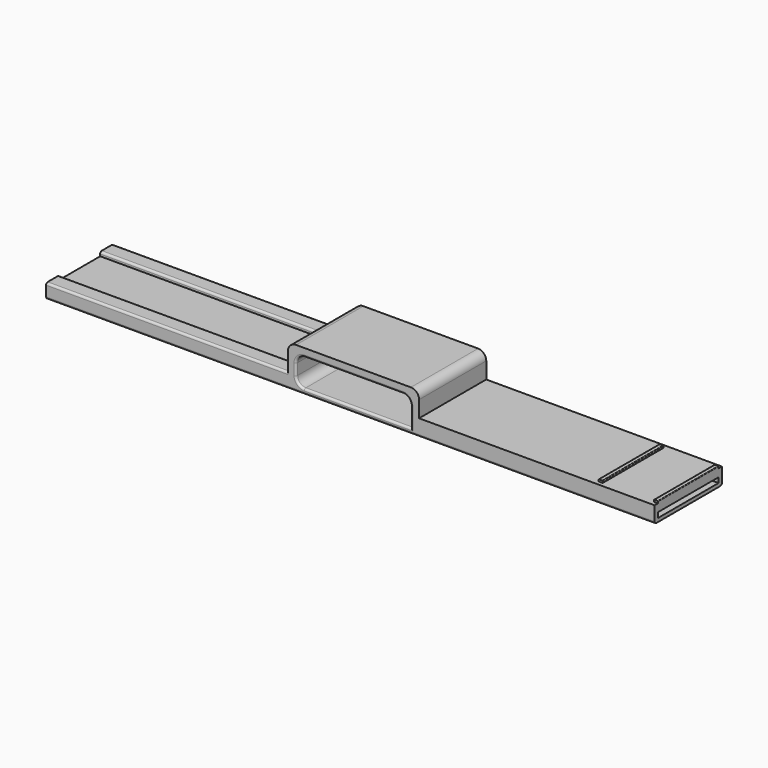
from build123d import *

# Parameters (mm, degrees)
SKETCH037_W      = 2
SKETCH037_H      = 37
EXTRUDE036_DEPTH = 1
FILLET012_R      = 0.25
SKETCH038_W      = 13.25
SKETCH038_H      = 36
EXTRUDE037_DEPTH = 2
SKETCH031_W      = 37
SKETCH031_H      = 2.5
EXTRUDE029_DEPTH = 120
SKETCH030_W      = 56
SKETCH030_H      = 13.5
EXTRUDE028_DEPTH = 41
SKETCH036_W      = 120
SKETCH036_H      = 8
EXTRUDE035_DEPTH = 2
FILLET011_R      = 1
FILLET013_R      = 4
FILLET014_R      = 1


with BuildPart() as velcrobands:
    # Sketch037 → Extrude036 (new body)
    with BuildSketch(Plane.XY.offset(5.5)):
        with Locations((174, 26.5)):
            Rectangle(SKETCH037_W, SKETCH037_H)
        with Locations((147, 26.5)):
            Rectangle(SKETCH037_W, SKETCH037_H)
    extrude(amount=EXTRUDE036_DEPTH)

    # Fillet012
    fillet012_edges = [velcrobands.edges().sort_by_distance(p)[0] for p in [
        (148, 26.5, 6.5),
        (146, 26.5, 6.5),
        (173, 26.5, 6.5),
        (175, 26.5, 6.5),
    ]]
    fillet(fillet012_edges, radius=FILLET012_R)


with BuildPart() as sensorcuts:
    # Sketch038 → Extrude037 (new body)
    with BuildSketch(Plane.XY.offset(-0.75)):
        with Locations((151.375, 26.5)):
            Rectangle(SKETCH038_W, SKETCH038_H)
    extrude(amount=-EXTRUDE037_DEPTH)


with BuildPart() as extrude029:
    # Sketch031 → Extrude029 (new body)
    with BuildSketch(Plane.YZ.offset(56)):
        with Locations((26.412533, 0.5)):
            Rectangle(SKETCH031_W, SKETCH031_H)
    extrude(amount=EXTRUDE029_DEPTH)


with BuildPart() as band002:
    # Sketch030 → Extrude028 (new body)
    with BuildSketch(Plane.XZ.offset(-6)):
        Polygon((175, 5.5), (60, 5.5), (60, 17.5), (-4, 17.5), (-4, 2.5), (-122, 2.5), (-122, -2.5), (175, -2.5), align=None)
        with Locations((28, 6.75)):
            Rectangle(SKETCH030_W, SKETCH030_H, mode=Mode.SUBTRACT)
    extrude(amount=-EXTRUDE028_DEPTH)

    # Cut002: cut Extrude029
    add(extrude029.part, mode=Mode.SUBTRACT)

    # Cut005: cut sensorCuts
    add(sensorcuts.part, mode=Mode.SUBTRACT)


with BuildPart() as fillet014:
    # Sketch036 → Extrude035 (new body)
    with BuildSketch(Plane.XY.offset(2.5)):
        with Locations((-62, 43)):
            Rectangle(SKETCH036_W, SKETCH036_H)
        with Locations((-62, 10)):
            Rectangle(SKETCH036_W, SKETCH036_H)
    extrude(amount=EXTRUDE035_DEPTH)

    # Fillet011
    fillet011_edges = [fillet014.edges().sort_by_distance(p)[0] for p in [
        (-62, 14, 4.5),
        (-62, 6, 4.5),
        (-62, 47, 4.5),
        (-62, 39, 4.5),
    ]]
    fillet(fillet011_edges, radius=FILLET011_R)

    # Fusion011: union velcroBands, band002
    add(velcrobands.part)
    add(band002.part)

    # Fillet013
    fillet013_edges = [fillet014.edges().sort_by_distance(p)[0] for p in [
        (60, 26.5, 17.5),
        (-4, 26.5, 17.5),
        (0, 26.5, 0),
        (0, 26.5, 13.5),
        (56, 26.5, 13.5),
    ]]
    fillet(fillet013_edges, radius=FILLET013_R)

    # Fillet014
    fillet014_edges = [fillet014.edges().sort_by_distance(p)[0] for p in [
        (26.5, 6, -2.5),
        (28, 6, 13.5),
        (26.5, 47, -2.5),
        (28, 47, 13.5),
        (56, 26.412533, 1.75),
    ]]
    fillet(fillet014_edges, radius=FILLET014_R)


solid = fillet014.part
